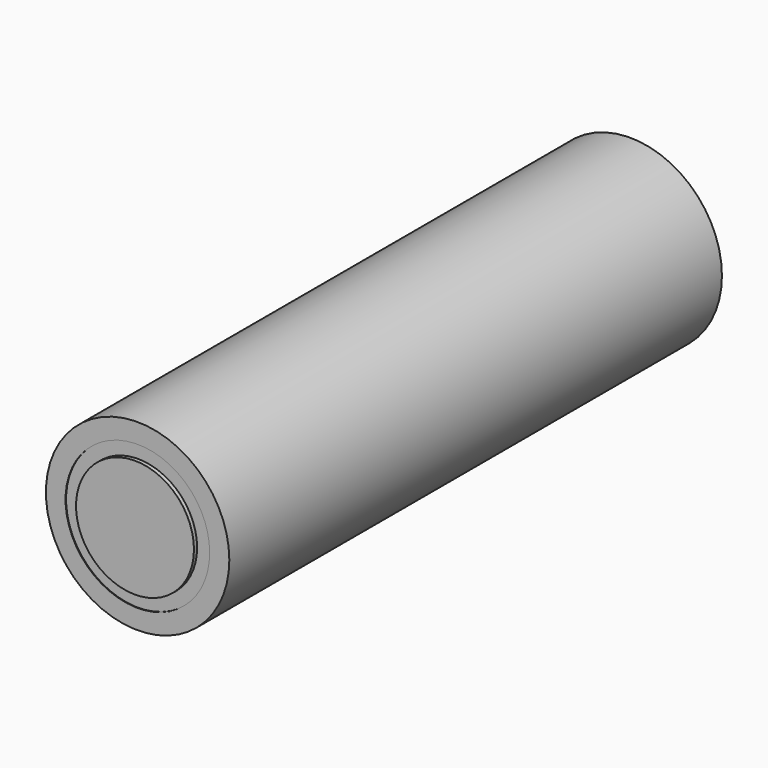
from build123d import *

# Parameters (mm, degrees)
F0_R     = 7
F0_R_2   = 5.5
F1_DEPTH = 23.5
F2_DEPTH = 23.45
F3_R     = 4.5
F4_DEPTH = 0.3
F5_R     = 2.5
F6_DEPTH = 2


with BuildPart() as f1:
    # F0 (on Front) → F1 (new body, symmetric)
    with BuildSketch(Plane.XZ):
        Circle(F0_R)
        Circle(F0_R_2, mode=Mode.SUBTRACT)
    extrude(amount=F1_DEPTH, both=True)

    # F0 (on Front) → F2 (join, symmetric)
    with BuildSketch(Plane.XZ):
        Circle(F0_R_2)
    extrude(amount=F2_DEPTH, both=True)

    # F3 (on face) → F4 (join)
    with BuildSketch(Plane.XZ.offset(23.45)):
        Circle(F3_R)
    extrude(amount=F4_DEPTH)

    # F5 (on face) → F6 (join)
    with BuildSketch(Plane(origin=(0, 23.45, 0), x_dir=(-1, 0, 0), z_dir=(0, 1, 0))):
        Circle(F5_R)
    extrude(amount=F6_DEPTH)


solid = f1.part
